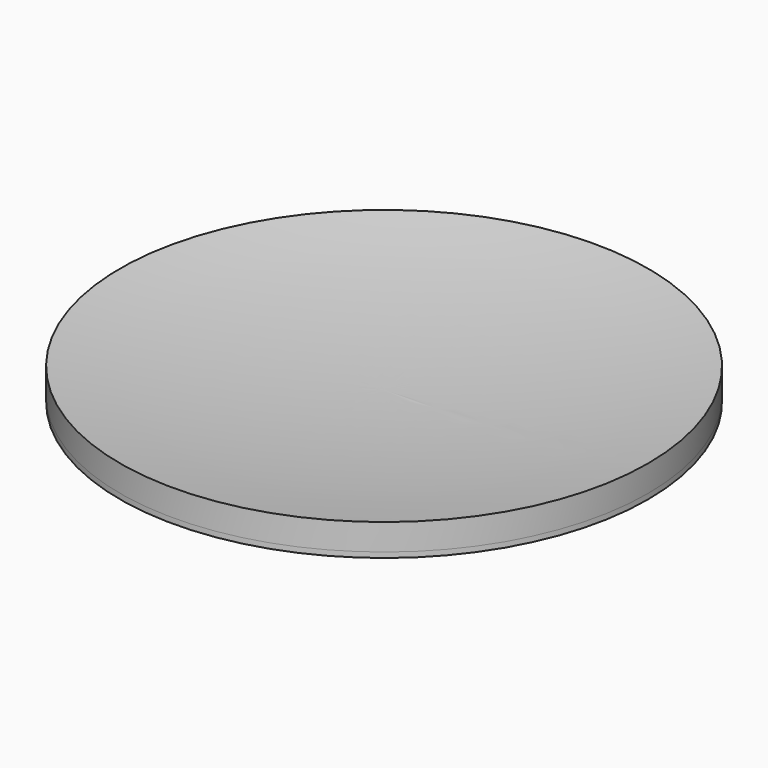
from build123d import *

# Parameters (mm, degrees)
F0_R     = 10
F1_DEPTH = 0.2


with BuildPart() as f1:
    # F0 (on Top) → F1 (new body)
    with BuildSketch(Plane.XY):
        Circle(F0_R)
    extrude(amount=F1_DEPTH)

    # F2 (on Front) → F3 (revolve)
    with BuildSketch(Plane.XZ):
        with BuildLine():
            Line((0, 0.4), (0, 0.2))
            Line((0, 0.2), (10, 0.2))
            Line((10, 0.2), (10, 1.2))
            ThreePointArc((10, 1.2), (5.015974, 0.600319), (0, 0.4))
        make_face()
    revolve(axis=Axis((0, 0, 0.3), (0, 0, 1)))


solid = f1.part
